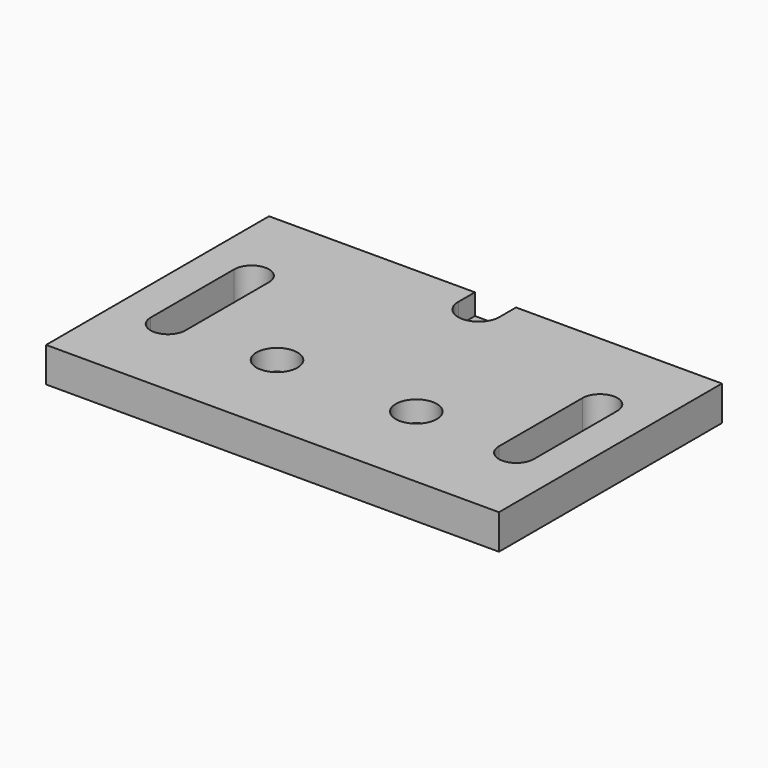
from build123d import *

# Parameters (mm, degrees)
F0_W     = 65
F0_H     = 40
F0_R     = 1.75
F1_DEPTH = 5
F2_R     = 2.95
F2_R_2   = 1.75
F3_DEPTH = 3


with BuildPart() as f1:
    # F0 (on Top) → F1 (new body)
    with BuildSketch(Plane.XY):
        Rectangle(F0_W, F0_H)
        with Locations((-10, -6.7)):
            Circle(F0_R, mode=Mode.SUBTRACT)
        with Locations((10, -6.7)):
            Circle(F0_R, mode=Mode.SUBTRACT)
        with BuildLine():
            ThreePointArc((-22.5, -7.5), (-25, -10), (-27.5, -7.5))
            Line((-27.5, -7.5), (-27.5, 7.5))
            ThreePointArc((-27.5, 7.5), (-25, 10), (-22.5, 7.5))
            Line((-22.5, 7.5), (-22.5, -7.5))
        make_face(mode=Mode.SUBTRACT)
        with BuildLine():
            ThreePointArc((27.5, -7.5), (25, -10), (22.5, -7.5))
            Line((22.5, -7.5), (22.5, 7.5))
            ThreePointArc((22.5, 7.5), (25, 10), (27.5, 7.5))
            Line((27.5, 7.5), (27.5, -7.5))
        make_face(mode=Mode.SUBTRACT)
        with Locations((0, 17)):
            Circle(F0_R, mode=Mode.SUBTRACT)
    extrude(amount=F1_DEPTH)

    # F2 (on face) → F3 (cut)
    with BuildSketch(Plane.XY.offset(5)):
        with Locations((10, -6.7)):
            Circle(F2_R)
        with Locations((10, -6.7)):
            Circle(F2_R_2, mode=Mode.SUBTRACT)
        with Locations((-10, -6.7)):
            Circle(F2_R_2)
        with Locations((-10, -6.7)):
            Circle(F2_R)
        with Locations((-10, -6.7)):
            Circle(F2_R_2, mode=Mode.SUBTRACT)
        with BuildLine():
            Line((-2.949923, 20), (-2.949923, 17.021281))
            ThreePointArc((-2.949923, 17.021281), (0, 14.05), (2.949923, 17.021281))
            Line((2.949923, 17.021281), (2.949923, 20))
            Line((2.949923, 20), (-2.949923, 20))
        make_face()
        with Locations((0, 17)):
            Circle(F2_R_2, mode=Mode.SUBTRACT)
    extrude(amount=-F3_DEPTH, mode=Mode.SUBTRACT)


solid = f1.part
